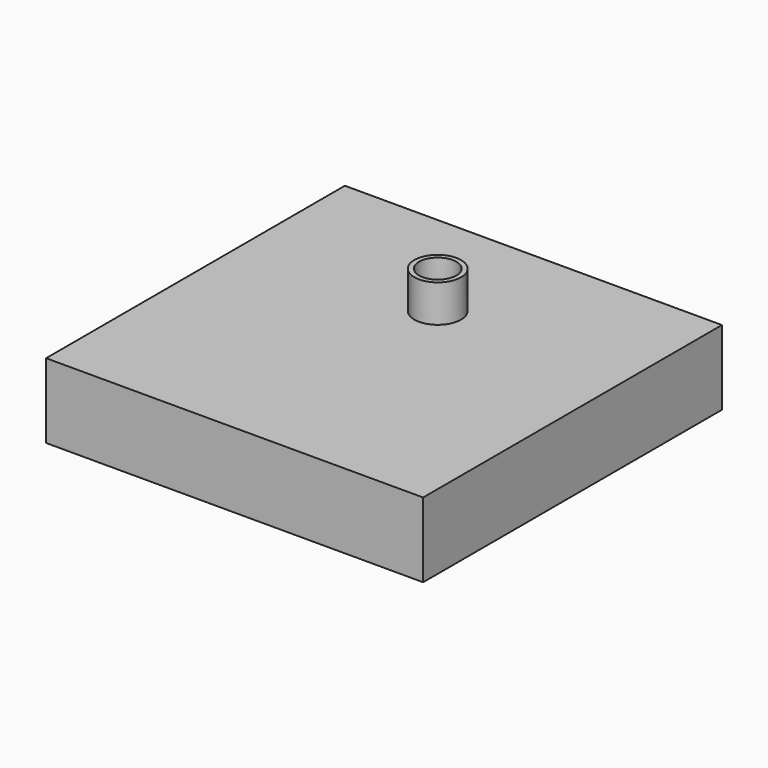
from build123d import *

# Parameters (mm, degrees)
F0_W     = 10.10204
F0_H     = 10.006507
F1_DEPTH = 2
F2_R     = 0.626011
F2_R_2   = 0.50054
F3_DEPTH = 1


with BuildPart() as f1:
    # F0 (on Top) → F1 (new body)
    with BuildSketch(Plane.XY):
        with Locations((5.05102, -5.003253)):
            Rectangle(F0_W, F0_H)
    extrude(amount=F1_DEPTH)

    # F2 (on face) → F3 (join)
    with BuildSketch(Plane.XY.offset(2)):
        with Locations((5.062681, -3.219365)):
            Circle(F2_R)
        with Locations((5.062681, -3.219365)):
            Circle(F2_R_2, mode=Mode.SUBTRACT)
    extrude(amount=F3_DEPTH)


solid = f1.part
